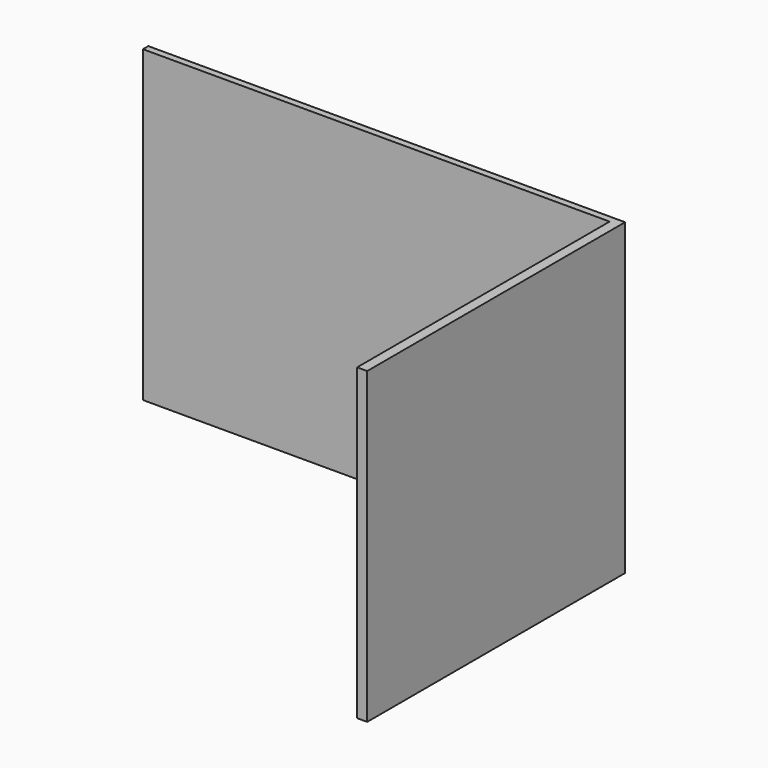
from build123d import *

# Parameters (mm, degrees)
F0_W     = 889
F0_H     = 584.2
F1_DEPTH = 12.7
F3_DEPTH = 584.2


with BuildPart() as f1:
    # F0 (on Front) → F1 (new body)
    with BuildSketch(Plane.XZ):
        with Locations((444.5, 292.1)):
            Rectangle(F0_W, F0_H)
    extrude(amount=F1_DEPTH)

    # F2 (on Top) → F3 (join)
    with BuildSketch(Plane.XY):
        Polygon((901.7, 0), (889, 0), (889, -12.7), (882.65, -12.7), (882.65, -609.6), (901.7, -609.6), align=None)
    extrude(amount=F3_DEPTH)


solid = f1.part
